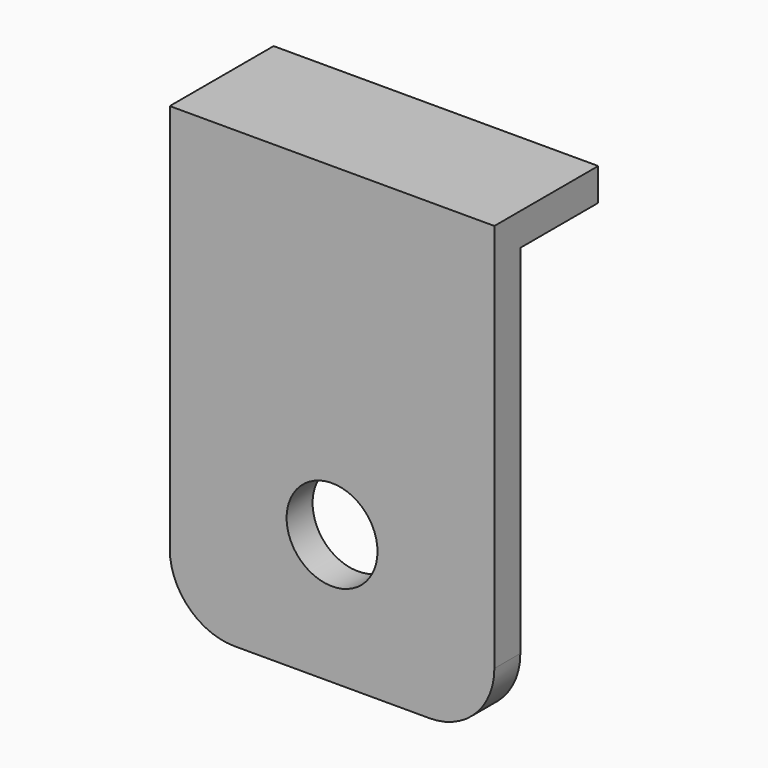
from build123d import *

# Parameters (mm, degrees)
F1_DEPTH = 50
F2_R     = 7
F3_DEPTH = 25
F4_R     = 10


with BuildPart() as f1:
    # F0 (on Right) → F1 (new body)
    with BuildSketch(Plane.YZ):
        Polygon((-5, -65), (0, -65), (0, 0), (15, 0), (15, 5), (-5, 5), align=None)
    extrude(amount=F1_DEPTH)

    # F2 (on face) → F3 (cut)
    with BuildSketch(Plane.XZ.offset(5)):
        with Locations((25, -45)):
            Circle(F2_R)
    extrude(amount=-F3_DEPTH, mode=Mode.SUBTRACT)

    # F4
    f4_edges = [f1.edges().sort_by_distance(p)[0] for p in [
        (0, -2.5, -65),
        (50, -2.5, -65),
    ]]
    fillet(f4_edges, radius=F4_R)


solid = f1.part
